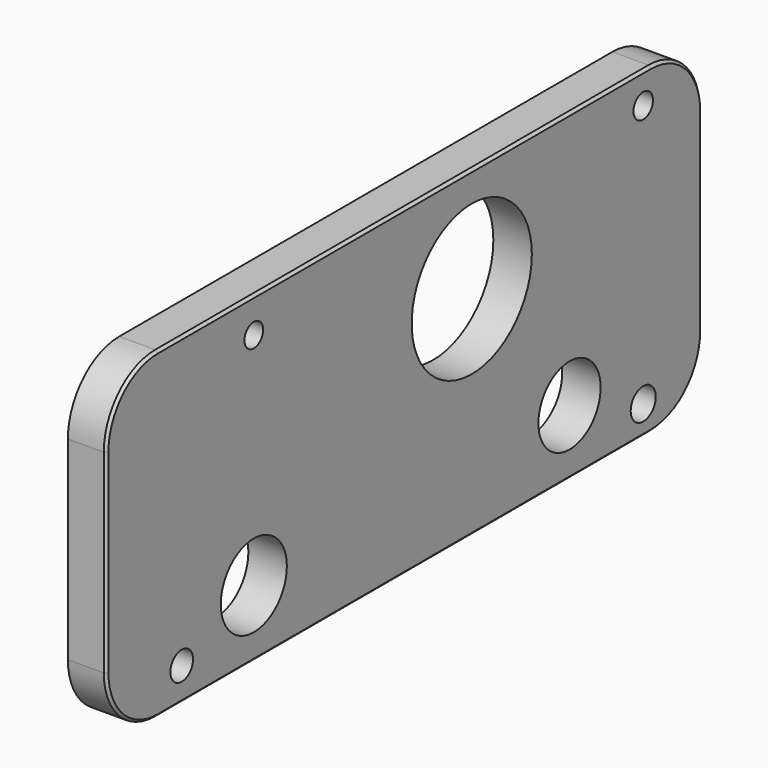
from build123d import *

# Parameters (mm, degrees)
F0_R     = 1.402122
F0_R_2   = 4.087853
F0_R_3   = 1.548687
F0_R_4   = 3.850092
F0_R_5   = 1.156219
F0_R_6   = 7.432567
F0_R_7   = 1.20615
F1_DEPTH = 3.81
F2_SIZE  = 0.254


with BuildPart() as f1:
    # F0 (on Right) → F1 (new body)
    with BuildSketch(Plane.YZ):
        with BuildLine():
            Line((67.368093, 0), (6.35, 0))
            ThreePointArc((6.35, 0), (1.859872, -1.859872), (0, -6.35))
            Line((0, -6.35), (0, -25.578357))
            ThreePointArc((0, -25.578357), (1.859872, -30.068485), (6.35, -31.928357))
            Line((6.35, -31.928357), (16.586564, -31.928357))
            Line((16.586564, -31.928357), (67.368093, -31.928357))
            ThreePointArc((67.368093, -31.928357), (71.858221, -30.068485), (73.718093, -25.578357))
            Line((73.718093, -25.578357), (73.718093, -6.35))
            ThreePointArc((73.718093, -6.35), (71.858221, -1.859872), (67.368093, 0))
        make_face()
        with Locations((9.319628, -28.652899)):
            Circle(F0_R, mode=Mode.SUBTRACT)
        with Locations((18.242678, -25.281971)):
            Circle(F0_R_2, mode=Mode.SUBTRACT)
        with Locations((66.427141, -29.04948)):
            Circle(F0_R_3, mode=Mode.SUBTRACT)
        with Locations((57.305802, -25.480261)):
            Circle(F0_R_4, mode=Mode.SUBTRACT)
        with Locations((18.242678, -3.470074)):
            Circle(F0_R_5, mode=Mode.SUBTRACT)
        with Locations((45.210112, -10.410224)):
            Circle(F0_R_6, mode=Mode.SUBTRACT)
        with Locations((66.427141, -3.073494)):
            Circle(F0_R_7, mode=Mode.SUBTRACT)
    extrude(amount=F1_DEPTH)

    # F2
    f2_edges = [f1.edges().sort_by_distance(p)[0] for p in [
        (3.81, 36.859047, 0),
        (3.81, 1.859872, -1.859872),
        (3.81, 0, -15.964178),
        (3.81, 1.859872, -30.068485),
        (3.81, 36.859047, -31.928357),
        (3.81, 71.858221, -30.068485),
        (3.81, 73.718093, -15.964178),
        (3.81, 71.858221, -1.859872),
    ]]
    chamfer(f2_edges, length=F2_SIZE)


solid = f1.part
